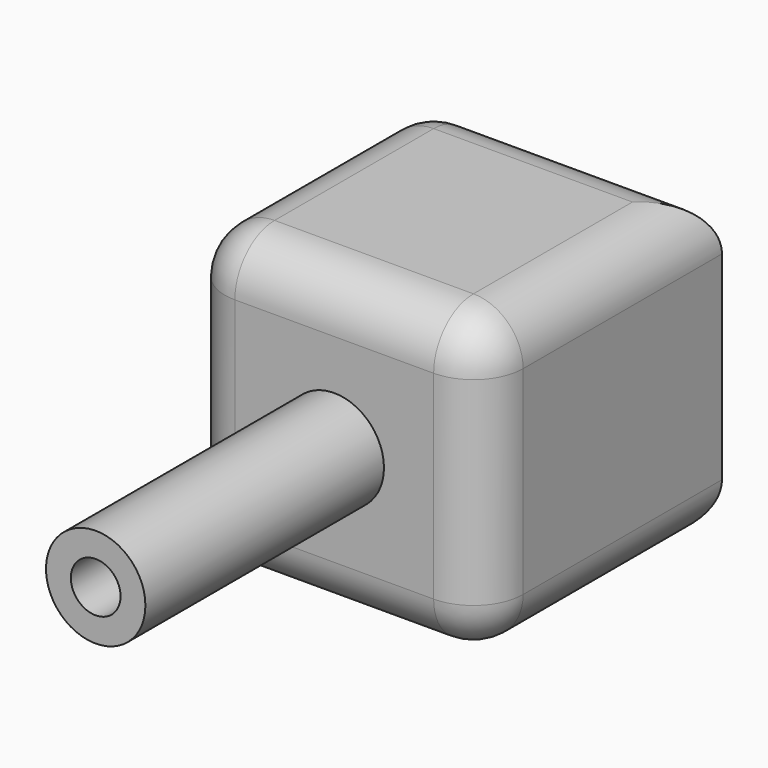
from build123d import *

# Parameters (mm, degrees)
F0_W     = 30
F0_H     = 30
F1_DEPTH = 30
F2_R     = 5
F3_DEPTH = 30
F4_R     = 2.5
F5_DEPTH = 60.001
F6_R     = 5


with BuildPart() as f1:
    # F0 (on Front) → F1 (new body)
    with BuildSketch(Plane.XZ):
        Rectangle(F0_W, F0_H)
    extrude(amount=-F1_DEPTH)

    # F2 (on face) → F3 (join)
    with BuildSketch(Plane.XZ):
        Circle(F2_R)
    extrude(amount=F3_DEPTH)

    # F4 (on face) → F5 (cut, through all)
    with BuildSketch(Plane.XZ.offset(30)):
        Circle(F4_R)
    extrude(amount=-F5_DEPTH, mode=Mode.SUBTRACT)

    # F6
    f6_edges = [f1.edges().sort_by_distance(p)[0] for p in [
        (-15, 0, 0),
        (0, 0, -15),
        (0, 0, 15),
        (15, 0, 0),
        (-15, 15, 15),
        (15, 15, 15),
        (0, 30, 15),
        (-15, 30, 0),
        (-15, 15, -15),
        (0, 30, -15),
        (15, 15, -15),
    ]]
    fillet(f6_edges, radius=F6_R)


solid = f1.part
